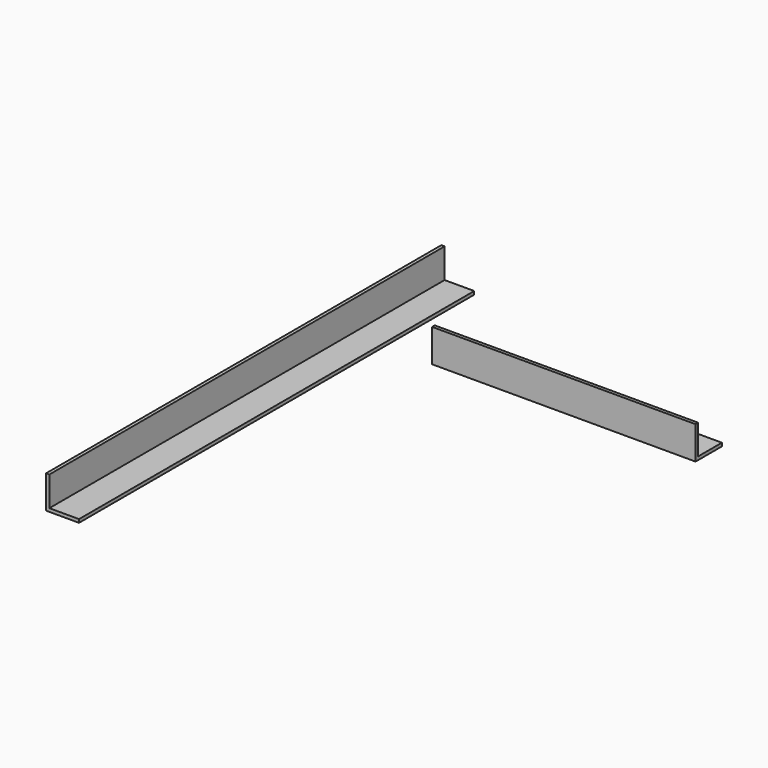
from build123d import *

# Parameters (mm, degrees)
F1_DEPTH = 300
F3_DEPTH = 160


with BuildPart() as f1:
    # F0 (on Front) → F1 (new body)
    with BuildSketch(Plane.XZ):
        Polygon((-37.622304, 12.837455), (-39.622304, 12.837455), (-39.622304, -7.162545), (-19.622304, -7.162545), (-19.622304, -5.162545), (-37.622304, -5.162545), align=None)
    extrude(amount=F1_DEPTH)


with BuildPart() as f3:
    # F2 (on Right) → F3 (new body)
    with BuildSketch(Plane.YZ):
        Polygon((-36.527676, -14.987473), (-36.547216, -12.987569), (-54.527676, -12.987569), (-54.527676, 5.012527), (-56.527676, 5.012527), (-56.527676, -14.987473), align=None)
    extrude(amount=F3_DEPTH)


solid = Compound([f1.part, f3.part])
